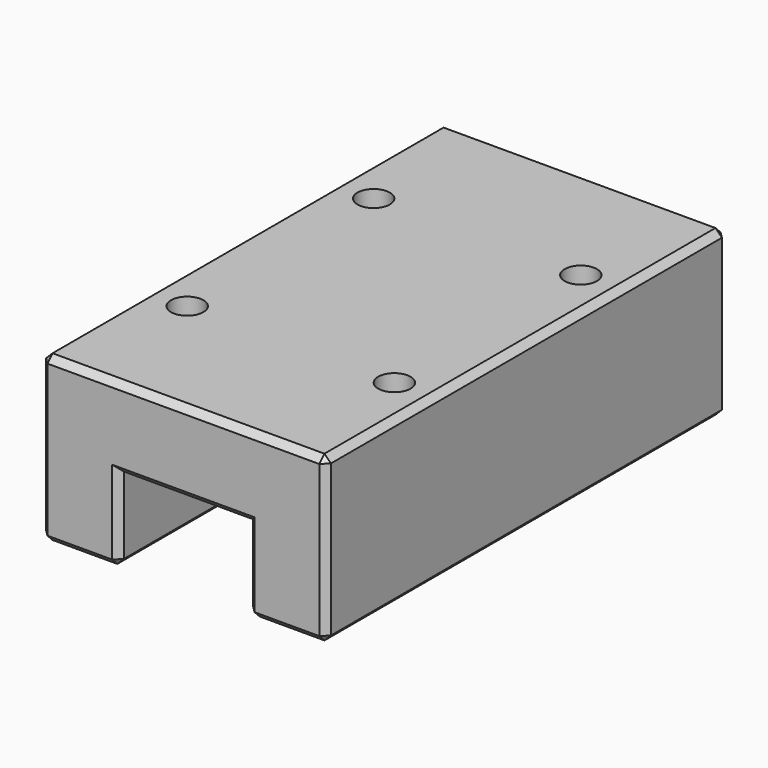
from build123d import *

# Parameters (mm, degrees)
PAD_DEPTH       = 77.5
SKETCH001_R     = 2.5
POCKET_DEPTH    = 6
CHAMFER_SIZE    = 1
SKETCH002_R     = 3
POCKET001_DEPTH = 6


with BuildPart() as part:
    # Sketch → Pad (new body)
    with BuildSketch(Plane.XZ):
        Polygon((-22, 30), (22, 30), (22, 4.6), (10, 4.6), (10, 17.5), (-10, 17.5), (-10, 4.6), (-22, 4.6), align=None)
    extrude(amount=PAD_DEPTH)

    # Sketch001 (on Face3 of Pad) → Pocket (cut)
    with BuildSketch(Plane(origin=(0, 0, 30), x_dir=(-1, 0, 0), z_dir=(0, 0, 1))):
        with Locations((-16, 20.75)):
            Circle(SKETCH001_R)
        with Locations((16, 20.75)):
            Circle(SKETCH001_R)
        with Locations((16, 56.75)):
            Circle(SKETCH001_R)
        with Locations((-16, 56.75)):
            Circle(SKETCH001_R)
    extrude(amount=-POCKET_DEPTH, mode=Mode.SUBTRACT)

    # Chamfer
    chamfer_edges = [part.edges().sort_by_distance(p)[0] for p in [
        (22, -38.75, 4.6),
        (22, -38.75, 30),
        (-22, -38.75, 30),
        (-22, -38.75, 4.6),
        (-10, -38.75, 4.6),
        (10, -38.75, 4.6),
        (-10, -77.5, 11.05),
        (0, -77.5, 17.5),
        (10, -77.5, 11.05),
        (16, -77.5, 4.6),
        (22, -77.5, 17.3),
        (0, -77.5, 30),
        (-22, -77.5, 17.3),
        (-10, 0, 11.05),
        (-16, 0, 4.6),
        (-22, 0, 17.3),
        (0, 0, 30),
        (22, 0, 17.3),
        (16, 0, 4.6),
        (10, 0, 11.05),
        (0, 0, 17.5),
        (-16, -77.5, 4.6),
    ]]
    chamfer(chamfer_edges, length=CHAMFER_SIZE)

    # Sketch002 → Pocket001 (cut)
    with BuildSketch(Plane.XZ):
        with Locations((0, 24)):
            Circle(SKETCH002_R)
    extrude(amount=POCKET001_DEPTH, mode=Mode.SUBTRACT)


solid = part.part
